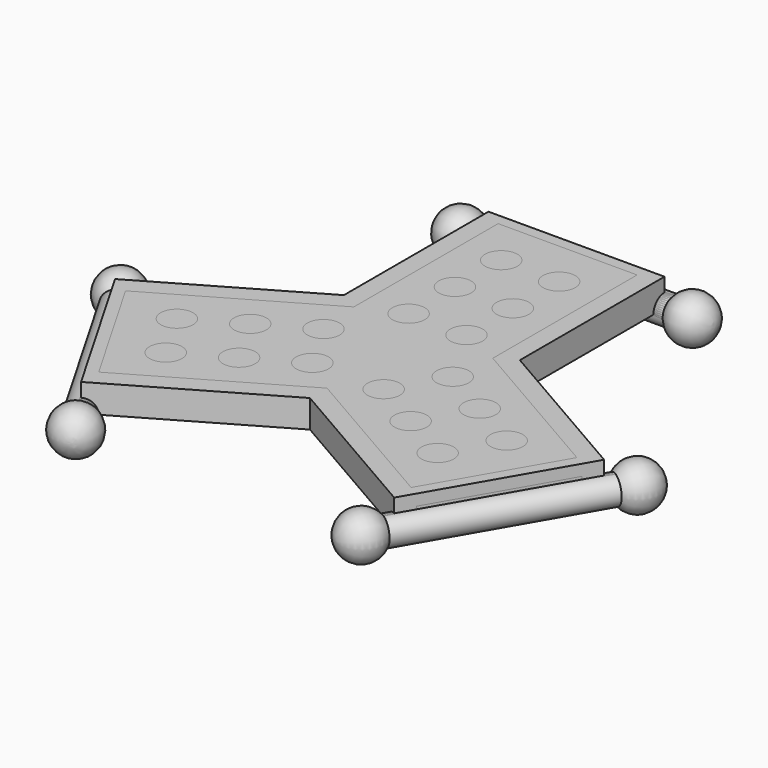
from build123d import *

# Parameters (mm, degrees)
SKETCH003_W           = 38
SKETCH003_H           = 50
PAD001_DEPTH          = 6
POLARPATTERN_COUNT    = 3
SKETCH005_W           = 30
SKETCH005_H           = 50
PAD002_DEPTH          = 6
POLARPATTERN001_COUNT = 3
CHAMFER_SIZE          = 2.4
POCKET_DEPTH          = 3
SKETCH007_R           = 3.5
POCKET001_DEPTH       = 326.662085
POLARPATTERN002_COUNT = 3
CHAMFER001_SIZE       = 1


with BuildPart() as plate_skel:
    # Sketch003 → Pad001 (new body)
    with BuildSketch(Plane.XY):
        with Locations((0, 25)):
            Rectangle(SKETCH003_W, SKETCH003_H)
    pad001 = extrude(amount=PAD001_DEPTH)

    # Sketch → Revolution (revolve)
    with BuildSketch(Plane.XY):
        with BuildLine():
            Line((-30, 50), (30, 50))
            ThreePointArc((30, 50), (26.581139, 54.743416), (21, 53))
            Line((-21, 53), (21, 53))
            ThreePointArc((-21, 53), (-26.581139, 54.743416), (-30, 50))
        make_face()
    revolution = revolve(axis=Axis((-30, 50, 0), (1, 0, 0)))

    # PolarPattern: Pad001, Revolution ×3 about axis
    polarpattern_axis = Axis((0, 0, 0), (0, 0, 1))
    for i in range(1, POLARPATTERN_COUNT):
        add(pad001.rotate(polarpattern_axis, i * 360 / POLARPATTERN_COUNT))
        add(revolution.rotate(polarpattern_axis, i * 360 / POLARPATTERN_COUNT))


with BuildPart() as body002:
    # Sketch005 → Pad002 (new body)
    with BuildSketch(Plane.XY):
        with Locations((0, 25)):
            Rectangle(SKETCH005_W, SKETCH005_H)
    pad002 = extrude(amount=PAD002_DEPTH)

    # Sketch004 → Revolution001 (revolve)
    with BuildSketch(Plane.XY):
        with BuildLine():
            Line((-29.9, 50), (29.9, 50))
            ThreePointArc((29.9, 50), (26.585253, 54.636483), (21.125726, 53))
            Line((-21.125726, 53), (21.125726, 53))
            ThreePointArc((-21.125726, 53), (-26.585253, 54.636483), (-29.9, 50))
        make_face()
    revolution001 = revolve(axis=Axis((-29.9, 50, 0), (1, 0, 0)))

    # PolarPattern001: Pad002, Revolution001 ×3 about axis
    polarpattern001_axis = Axis((0, 0, 0), (0, 0, 1))
    for i in range(1, POLARPATTERN001_COUNT):
        add(pad002.rotate(polarpattern001_axis, i * 360 / POLARPATTERN001_COUNT))
        add(revolution001.rotate(polarpattern001_axis, i * 360 / POLARPATTERN001_COUNT))

    # Chamfer
    chamfer_edges = [body002.edges().sort_by_distance(p)[0] for p in [
        (-43.30127, -25, 6),
        (43.30127, -25, 6),
        (0, 50, 6),
    ]]
    chamfer(chamfer_edges, length=CHAMFER_SIZE)

    # Sketch006 (on Face6 of Chamfer) → Pocket (cut)
    with BuildSketch(Plane(origin=(0, 0, 0), x_dir=(1, 0, 0), z_dir=(0, 0, -1))):
        Polygon((25.980762, 45), (-25.980762, 45), (-51.961524, 0), (-25.980762, -45), (25.980762, -45), (51.961524, 0), align=None)
    extrude(amount=-POCKET_DEPTH, mode=Mode.SUBTRACT)

    # Sketch007 (on Face5 of Pocket) → Pocket001 (cut, through all)
    with BuildSketch(Plane(origin=(0, 0, 3), x_dir=(1, 0, 0), z_dir=(0, 0, -1))):
        with Locations((-6.25, -37.5)):
            Circle(SKETCH007_R)
        with Locations((6.25, -37.5)):
            Circle(SKETCH007_R)
        with Locations((-6.25, -25)):
            Circle(SKETCH007_R)
        with Locations((6.25, -25)):
            Circle(SKETCH007_R)
        with Locations((6.25, -12.5)):
            Circle(SKETCH007_R)
        with Locations((-6.25, -12.5)):
            Circle(SKETCH007_R)
    pocket001 = extrude(amount=-POCKET001_DEPTH, mode=Mode.SUBTRACT)

    # PolarPattern002: Pocket001 ×3 about axis
    polarpattern002_axis = Axis((0, 0, 0), (0, 0, 1))
    for i in range(1, POLARPATTERN002_COUNT):
        add(pocket001.rotate(polarpattern002_axis, i * 360 / POLARPATTERN002_COUNT), mode=Mode.SUBTRACT)

    # Chamfer001
    chamfer001_edges = [body002.edges().sort_by_distance(p)[0] for p in [
        (-38.971143, -22.5, 0),
        (0, 45, 0),
        (38.971143, -22.5, 0),
    ]]
    chamfer(chamfer001_edges, length=CHAMFER001_SIZE)


solid = Compound([plate_skel.part, body002.part])
